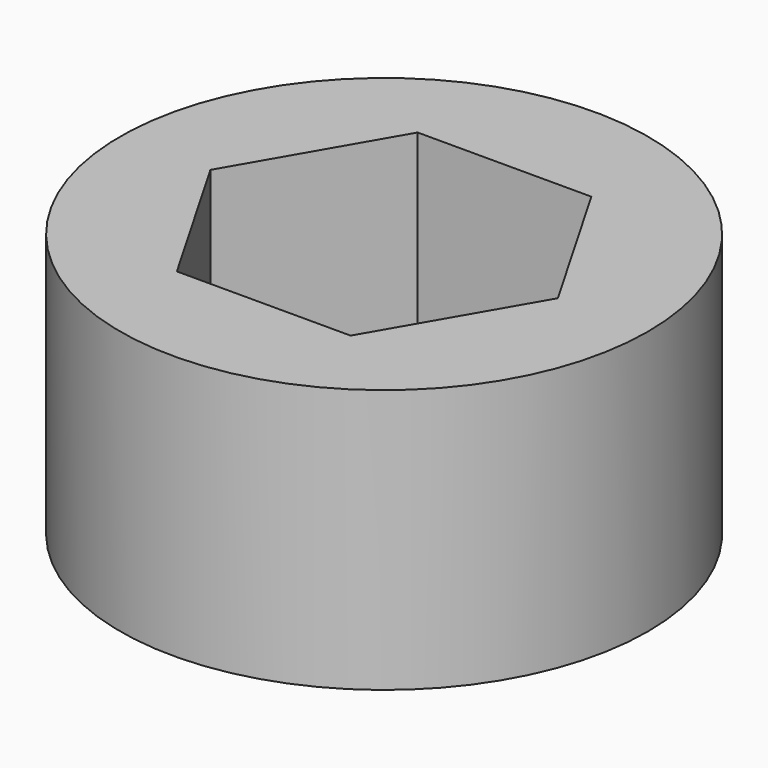
from build123d import *

# Parameters (mm, degrees)
SKETCH_R      = 5
PAD_DEPTH     = 5
SKETCH001_R   = 5
SKETCH001_R_2 = 1.7
PAD001_DEPTH  = 1


with BuildPart() as part:
    # Sketch → Pad (new body)
    with BuildSketch(Plane.XY):
        Circle(SKETCH_R)
        Polygon((-3.290897, 0), (-1.645448, -2.85), (1.645448, -2.85), (3.290897, 0), (1.645448, 2.85), (-1.645448, 2.85), align=None, mode=Mode.SUBTRACT)
    extrude(amount=PAD_DEPTH)

    # Sketch001 → Pad001 (join)
    with BuildSketch(Plane.XY):
        Circle(SKETCH001_R)
        Circle(SKETCH001_R_2, mode=Mode.SUBTRACT)
    extrude(amount=PAD001_DEPTH)


solid = part.part
